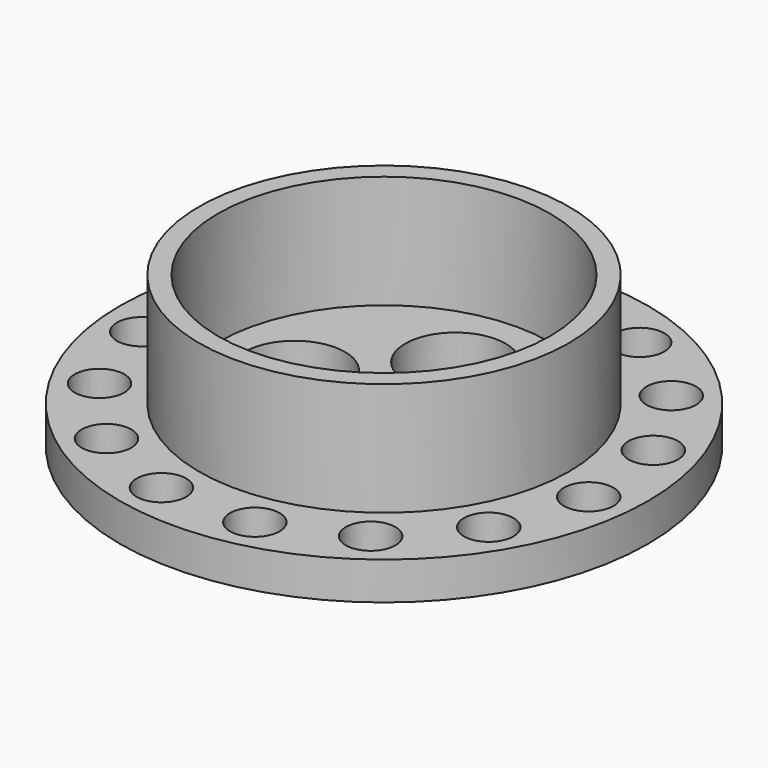
from build123d import *

# Parameters (mm, degrees)
F0_R     = 35
F0_R_2   = 3.2880949383
F0_R_3   = 24.5
F0_R_4   = 22
F0_R_5   = 6.6571375288
F0_R_6   = 1.75
F1_DEPTH = 5
F2_DEPTH = 20
F3_DEPTH = 3


with BuildPart() as f1:
    # F0 (on Top) → F1 (new body)
    with BuildSketch(Plane.XY):
        Circle(F0_R)
        with Locations((-17.5033363634, -24.0912757185)):
            Circle(F0_R_2, mode=Mode.SUBTRACT)
        with Locations((-6.1912888152, -29.1277237765)):
            Circle(F0_R_2, mode=Mode.SUBTRACT)
        with Locations((-25.7888980415, -14.8892272264)):
            Circle(F0_R_2, mode=Mode.SUBTRACT)
        with Locations((-29.6153249635, -3.1126960824)):
            Circle(F0_R_2, mode=Mode.SUBTRACT)
        with Locations((6.1912888152, -29.1277237765)):
            Circle(F0_R_2, mode=Mode.SUBTRACT)
        with Locations((17.5033363634, -24.0912757185)):
            Circle(F0_R_2, mode=Mode.SUBTRACT)
        with Locations((25.7888980415, -14.8892272264)):
            Circle(F0_R_2, mode=Mode.SUBTRACT)
        with Locations((29.6153249635, -3.1126960824)):
            Circle(F0_R_2, mode=Mode.SUBTRACT)
        with Locations((-28.3209931525, 9.2020484921)):
            Circle(F0_R_2, mode=Mode.SUBTRACT)
        with Locations((-22.1297043373, 19.9256752844)):
            Circle(F0_R_2, mode=Mode.SUBTRACT)
        with Locations((-12.1119886001, 27.2039718009)):
            Circle(F0_R_2, mode=Mode.SUBTRACT)
        Circle(F0_R_3, mode=Mode.SUBTRACT)
        with Locations((28.3209931525, 9.2020484921)):
            Circle(F0_R_2, mode=Mode.SUBTRACT)
        with Locations((0, 29.7784544528)):
            Circle(F0_R_2, mode=Mode.SUBTRACT)
        with Locations((12.1119886001, 27.2039718009)):
            Circle(F0_R_2, mode=Mode.SUBTRACT)
        with Locations((22.1297043373, 19.9256752844)):
            Circle(F0_R_2, mode=Mode.SUBTRACT)
        Circle(F0_R_3)
        Circle(F0_R_4, mode=Mode.SUBTRACT)
        Circle(F0_R_4)
        with Locations((0, -11.8328090757)):
            Circle(F0_R_5, mode=Mode.SUBTRACT)
        with Locations((-11.8328090757, 0)):
            Circle(F0_R_5, mode=Mode.SUBTRACT)
        Circle(F0_R_6, mode=Mode.SUBTRACT)
        with Locations((11.8328090757, 0)):
            Circle(F0_R_5, mode=Mode.SUBTRACT)
        with Locations((0, 11.8328090757)):
            Circle(F0_R_5, mode=Mode.SUBTRACT)
    extrude(amount=F1_DEPTH)

    # F0 (on Top) → F2 (join)
    with BuildSketch(Plane.XY):
        Circle(F0_R_3)
        Circle(F0_R_4, mode=Mode.SUBTRACT)
    extrude(amount=F2_DEPTH)

    # F0 (on Top) → F3 (join)
    with BuildSketch(Plane.XY):
        Circle(F0_R)
        with Locations((-17.5033363634, -24.0912757185)):
            Circle(F0_R_2, mode=Mode.SUBTRACT)
        with Locations((-6.1912888152, -29.1277237765)):
            Circle(F0_R_2, mode=Mode.SUBTRACT)
        with Locations((-25.7888980415, -14.8892272264)):
            Circle(F0_R_2, mode=Mode.SUBTRACT)
        with Locations((-29.6153249635, -3.1126960824)):
            Circle(F0_R_2, mode=Mode.SUBTRACT)
        with Locations((6.1912888152, -29.1277237765)):
            Circle(F0_R_2, mode=Mode.SUBTRACT)
        with Locations((17.5033363634, -24.0912757185)):
            Circle(F0_R_2, mode=Mode.SUBTRACT)
        with Locations((25.7888980415, -14.8892272264)):
            Circle(F0_R_2, mode=Mode.SUBTRACT)
        with Locations((29.6153249635, -3.1126960824)):
            Circle(F0_R_2, mode=Mode.SUBTRACT)
        with Locations((-28.3209931525, 9.2020484921)):
            Circle(F0_R_2, mode=Mode.SUBTRACT)
        with Locations((-22.1297043373, 19.9256752844)):
            Circle(F0_R_2, mode=Mode.SUBTRACT)
        with Locations((-12.1119886001, 27.2039718009)):
            Circle(F0_R_2, mode=Mode.SUBTRACT)
        Circle(F0_R_3, mode=Mode.SUBTRACT)
        with Locations((28.3209931525, 9.2020484921)):
            Circle(F0_R_2, mode=Mode.SUBTRACT)
        with Locations((0, 29.7784544528)):
            Circle(F0_R_2, mode=Mode.SUBTRACT)
        with Locations((12.1119886001, 27.2039718009)):
            Circle(F0_R_2, mode=Mode.SUBTRACT)
        with Locations((22.1297043373, 19.9256752844)):
            Circle(F0_R_2, mode=Mode.SUBTRACT)
    extrude(amount=F3_DEPTH)


solid = f1.part
